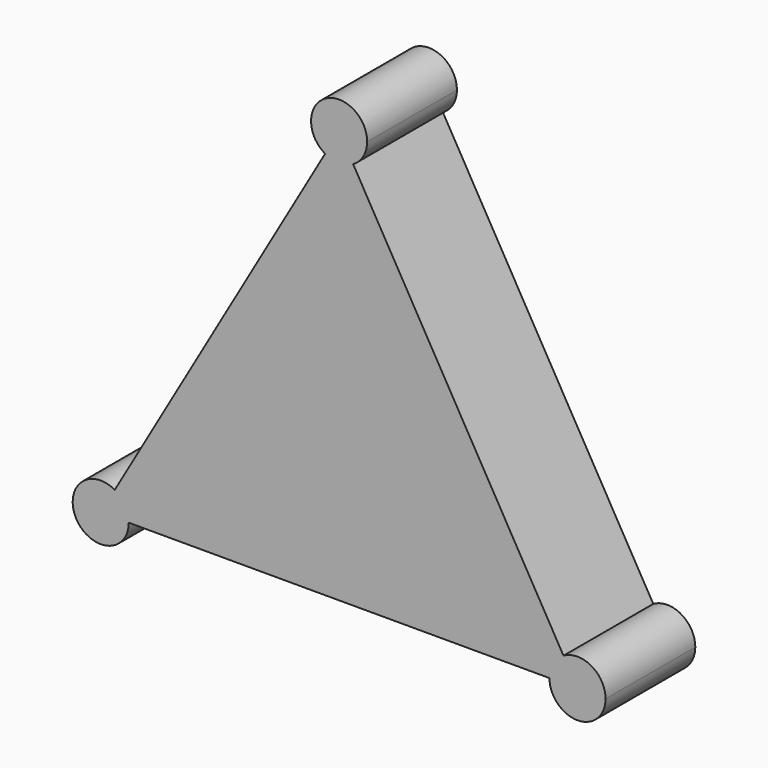
from build123d import *

# Parameters (mm, degrees)
F1_DEPTH = 12.7


with BuildPart() as f1:
    # F0 (on Front) → F1 (new body)
    with BuildSketch(Plane.XZ):
        with BuildLine():
            ThreePointArc((28.575, 43.994091), (29.737131, 45.156221), (30.1625, 46.743721))
            ThreePointArc((30.1625, 46.743721), (25.4, 49.493352), (25.4, 43.994091))
            ThreePointArc((25.4, 43.994091), (26.9875, 43.568721), (28.575, 43.994091))
        make_face()
        with BuildLine():
            ThreePointArc((28.575, 43.994091), (26.9875, 43.568721), (25.4, 43.994091))
            Line((25.4, 43.994091), (1.5875, 2.749631))
            ThreePointArc((1.5875, 2.749631), (2.749631, 1.5875), (3.175, 0))
            Line((3.175, 0), (50.8, 0))
            ThreePointArc((50.8, 0), (51.225369, 1.5875), (52.3875, 2.749631))
            Line((52.3875, 2.749631), (28.575, 43.994091))
        make_face()
        with BuildLine():
            ThreePointArc((3.175, 0), (2.749631, 1.5875), (1.5875, 2.749631))
            ThreePointArc((1.5875, 2.749631), (-2.749631, -1.5875), (3.175, 0))
        make_face()
        with BuildLine():
            ThreePointArc((57.15, 0), (55.5625, 2.749631), (52.3875, 2.749631))
            ThreePointArc((52.3875, 2.749631), (51.225369, 1.5875), (50.8, 0))
            ThreePointArc((50.8, 0), (53.975, -3.175), (57.15, 0))
        make_face()
    extrude(amount=F1_DEPTH)


solid = f1.part
